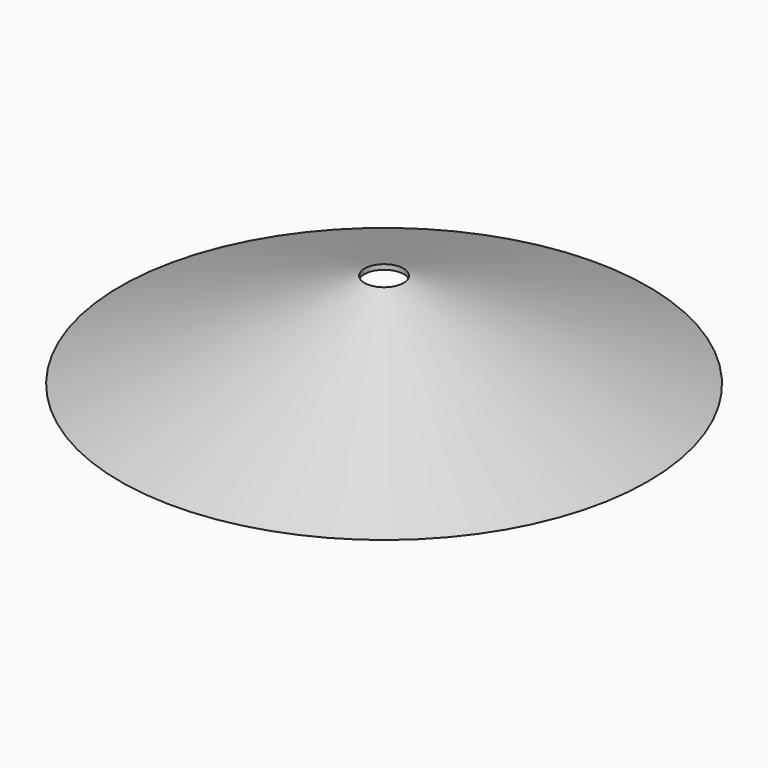
from build123d import *

# Parameters (mm, degrees)
F2_DEPTH = 25.4
F3_DEPTH = 9.398


with BuildPart() as f1:
    # F0 (on Front) → F1 (revolve)
    with BuildSketch(Plane.XZ):
        Polygon((11.2185701728, 72.9290992022), (159.1500639915, 72.9290992022), (10, 131.0742050409), (0, 131.0742050409), (0, 128.5420060158), (10.000754334, 128.5420060158), (135.111038288, 79.7686397339), (11.2185701728, 79.6332210302), align=None)
    revolve(axis=Axis((0, 0, 129.8081055284), (0, 0, 1)))

    # F2 (cut): a face of the model
    f2_faces = [f1.faces().sort_by_distance(p)[0] for p in [
        (0, 0, 131.0742050409),
    ]]
    extrude(f2_faces, amount=-F2_DEPTH, mode=Mode.SUBTRACT)

    # F3 (cut): a face of the model
    f3_faces = [f1.faces().sort_by_distance(p)[0] for p in [
        (-15.7200137518, 0, 72.9290992022),
    ]]
    extrude(f3_faces, amount=-F3_DEPTH, mode=Mode.SUBTRACT)


solid = f1.part
